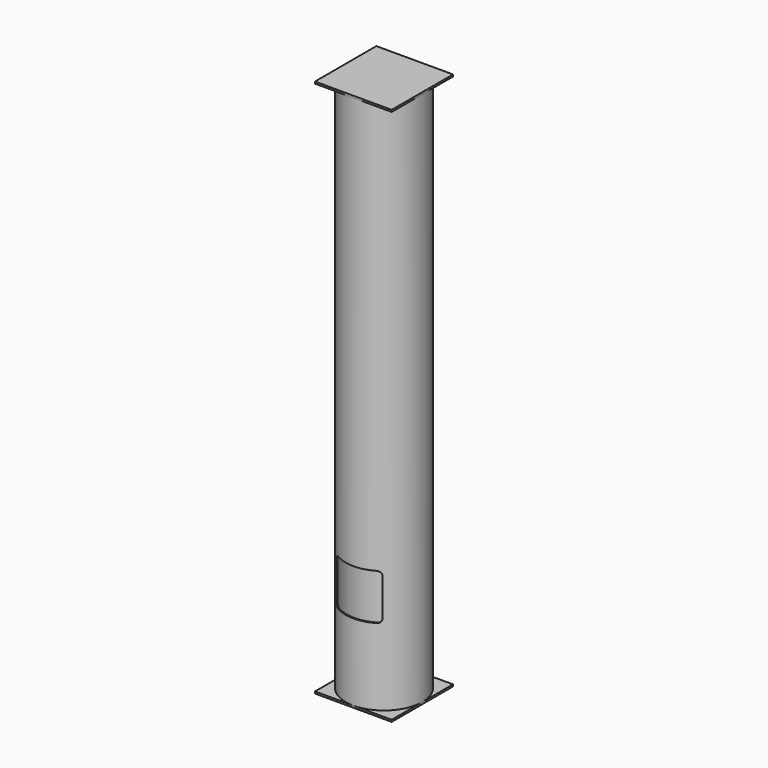
from build123d import *

# Parameters (mm, degrees)
F0_R        = 500
F0_R_2      = 485
F2_DEPTH    = 7000
F1_R        = 485
F4_DEPTH    = 25
F6_DEPTH    = 500
F7_R        = 485
F2_FACE_R   = 500
F2_FACE_R_2 = 485
F8_DEPTH    = 25


with BuildPart() as f2:
    # F0 (on Top) → F2 (new body)
    with BuildSketch(Plane.XY):
        Circle(F0_R)
        Circle(F0_R_2, mode=Mode.SUBTRACT)
    extrude(amount=F2_DEPTH)

    # F3 (on face) + F1 (on face) → F4 (join)
    with BuildSketch(Plane.XY):
        with BuildLine():
            Line((-500, -5.933e-07), (-500, -500))
            Line((-500, -500), (-3.773e-07, -500))
            ThreePointArc((-3.773e-07, -500), (-353.5533905169, -353.5533906696), (-500, -5.933e-07))
        make_face()
        with BuildLine():
            ThreePointArc((500, 0), (353.5533904599, -353.5533907267), (-3.773e-07, -500))
            Line((-3.773e-07, -500), (500, -500))
            Line((500, -500), (500, 0))
        make_face()
        with BuildLine():
            ThreePointArc((-7.847e-07, 500), (353.5533903158, 353.5533908707), (500, 0))
            Line((500, 0), (500, 500))
            Line((500, 500), (-7.847e-07, 500))
        make_face()
        with BuildLine():
            Line((-500, 500), (-500, -5.933e-07))
            ThreePointArc((-500, -5.933e-07), (-353.5533910805, 353.5533901061), (-7.847e-07, 500))
            Line((-7.847e-07, 500), (-500, 500))
        make_face()
    with BuildSketch(Plane.XY):
        Circle(F1_R)
    extrude(amount=F4_DEPTH)

    # F5 (on Front) → F6 (cut, symmetric)
    with BuildSketch(Plane.XZ):
        with BuildLine():
            Line((250, 1625), (-250, 1625))
            ThreePointArc((-250, 1625), (-285.3553390593, 1610.3553390593), (-300, 1575))
            Line((-300, 1575), (-300, 1075))
            ThreePointArc((-300, 1075), (-285.3553390593, 1039.6446609407), (-250, 1025))
            Line((-250, 1025), (250, 1025))
            ThreePointArc((250, 1025), (285.3553390593, 1039.6446609407), (300, 1075))
            Line((300, 1075), (300, 1575))
            ThreePointArc((300, 1575), (285.3553390593, 1610.3553390593), (250, 1625))
        make_face()
    extrude(amount=F6_DEPTH, both=True, mode=Mode.SUBTRACT)

    # F7 (on face) + F2_face (on face) → F8 (join)
    with BuildSketch(Plane.XY.offset(7000)):
        with BuildLine():
            ThreePointArc((500, 0), (353.5533903158, 353.5533908707), (-7.847e-07, 500))
            ThreePointArc((-7.847e-07, 500), (-353.5533910805, 353.5533901061), (-500, -5.933e-07))
            ThreePointArc((-500, -5.933e-07), (-353.5533905169, -353.5533906696), (-3.773e-07, -500))
            ThreePointArc((-3.773e-07, -500), (353.5533904599, -353.5533907267), (500, 0))
        make_face()
        Circle(F7_R, mode=Mode.SUBTRACT)
        Circle(F7_R)
        with BuildLine():
            Line((500, -500), (500, 0))
            ThreePointArc((500, 0), (353.5533904599, -353.5533907267), (-3.773e-07, -500))
            Line((-3.773e-07, -500), (500, -500))
        make_face()
        with BuildLine():
            ThreePointArc((-3.773e-07, -500), (-353.5533905169, -353.5533906696), (-500, -5.933e-07))
            Line((-500, -5.933e-07), (-500, -500))
            Line((-500, -500), (-3.773e-07, -500))
        make_face()
        with BuildLine():
            Line((500, 500), (-7.847e-07, 500))
            ThreePointArc((-7.847e-07, 500), (353.5533903158, 353.5533908707), (500, 0))
            Line((500, 0), (500, 500))
        make_face()
        with BuildLine():
            Line((-7.847e-07, 500), (-500, 500))
            Line((-500, 500), (-500, -5.933e-07))
            ThreePointArc((-500, -5.933e-07), (-353.5533910805, 353.5533901061), (-7.847e-07, 500))
        make_face()
    with BuildSketch(Plane.XY.offset(7000)):
        Circle(F2_FACE_R)
        Circle(F2_FACE_R_2, mode=Mode.SUBTRACT)
    extrude(amount=F8_DEPTH)


solid = f2.part
